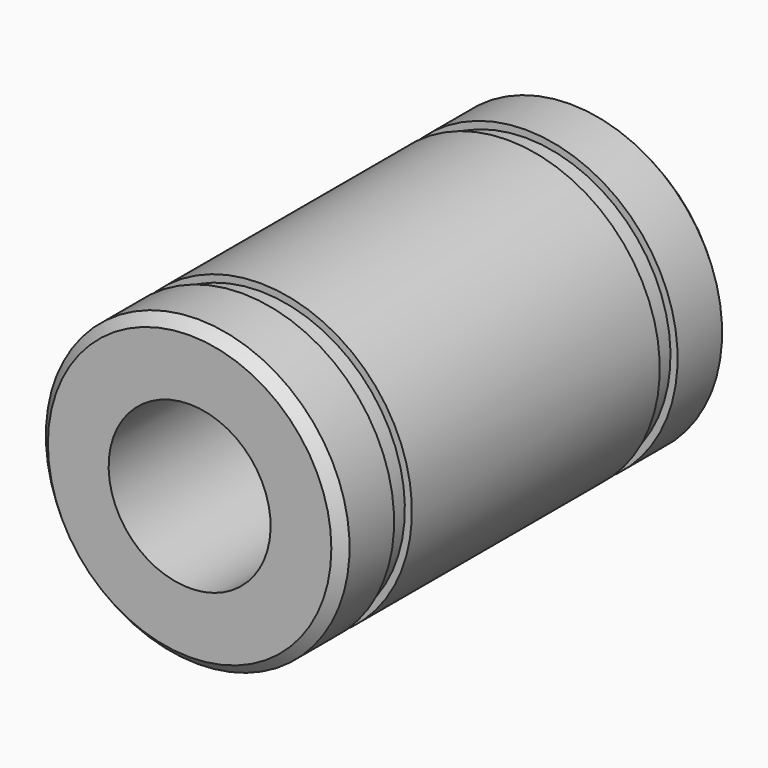
from build123d import *

# Parameters (mm, degrees)
F2_SIZE = 0.5


with BuildPart() as f1:
    # F0 (on Right) → F1 (revolve)
    with BuildSketch(Plane.YZ):
        Polygon((-12, 7.5), (-12, 4), (12, 4), (12, 7.5), (8.75, 7.5), (8.75, 7.15), (7.65, 7.15), (7.65, 7.5), (-7.65, 7.5), (-7.65, 7.15), (-8.75, 7.15), (-8.75, 7.5), align=None)
    revolve(axis=Axis((0, 0, 0), (0, 1, 0)))

    # F2
    f2_edges = [f1.edges().sort_by_distance(p)[0] for p in [
        (0, -12, -7.5),
        (0, 12, -7.5),
    ]]
    chamfer(f2_edges, length=F2_SIZE)


solid = f1.part
